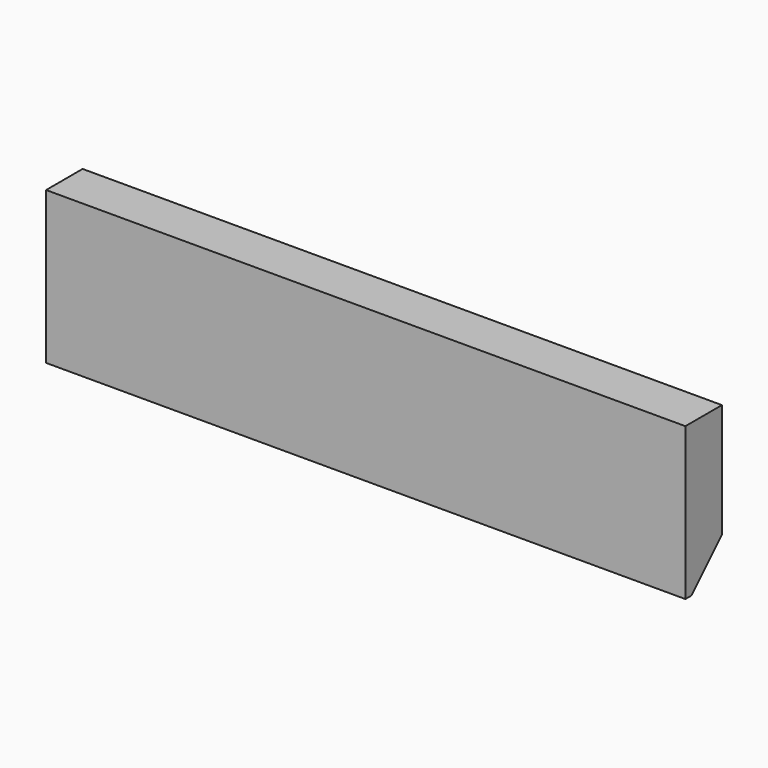
from build123d import *

# Parameters (mm, degrees)
F0_W     = 19.05
F0_H     = 63.5
F1_DEPTH = 266.7
F2_SIZE2 = 15.875
F2_SIZE  = 15.875


with BuildPart() as f1:
    # F0 (on Right) → F1 (new body)
    with BuildSketch(Plane.YZ):
        with Locations((9.525, 31.75)):
            Rectangle(F0_W, F0_H)
    extrude(amount=-F1_DEPTH)

    # F2
    f2_edges = [f1.edges().sort_by_distance(p)[0] for p in [
        (-133.35, 19.05, 0),
    ]]
    chamfer(f2_edges, length=F2_SIZE, length2=F2_SIZE2)


solid = f1.part
